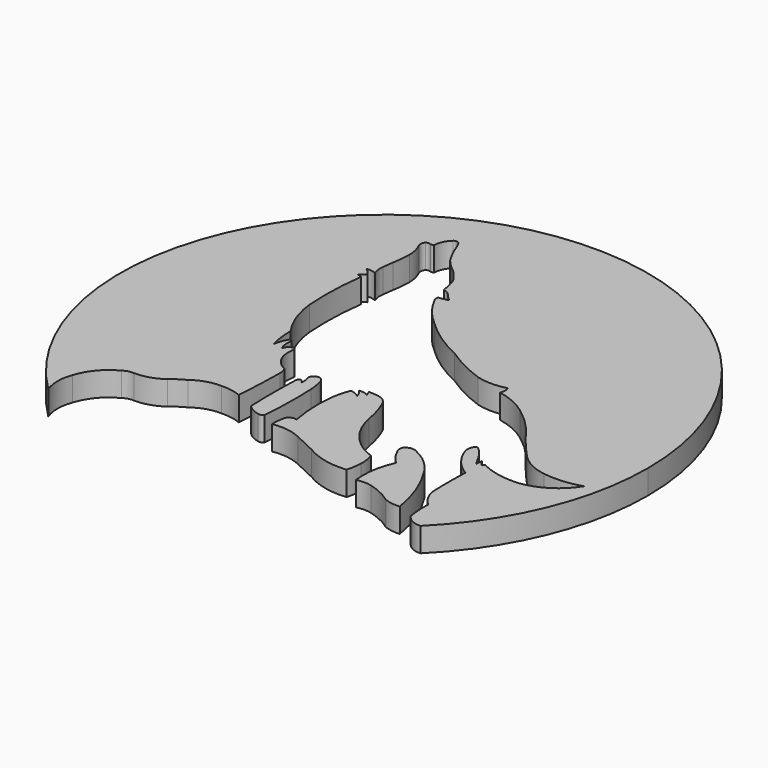
from build123d import *

# Parameters (mm, degrees)
F1_DEPTH = 1.5875


with BuildPart() as f1:
    # F0 (on Top) → F1 (new body)
    with BuildSketch(Plane.XY):
        with BuildLine():
            ThreePointArc((40.6138412089, 11.1879872811), (44.3893813546, 16.818760916), (45.715559274, 23.4671868384))
            ThreePointArc((45.715559274, 23.4671868384), (21.6972410902, 39.4516960826), (16.225380823, 11.1242731611))
            ThreePointArc((16.225380823, 11.1242731611), (16.0449899903, 12.1149049861), (16.225380823, 13.1055368111))
            ThreePointArc((16.225380823, 13.1055368111), (16.853264006, 14.2602760872), (17.8832188249, 15.0768868625))
            ThreePointArc((17.8832188249, 15.0768868625), (18.1963209443, 15.2252877767), (18.541412428, 15.2563946322))
            ThreePointArc((18.541412428, 15.2563946322), (19.4696798214, 15.3874227341), (20.3065685928, 15.8098749816))
            ThreePointArc((20.3065685928, 15.8098749816), (20.7291825225, 16.1298273504), (21.1891476065, 16.3932740688))
            ThreePointArc((21.1891476065, 16.3932740688), (22.0231564983, 16.8249110158), (22.9543037713, 16.9467553496))
            ThreePointArc((22.9543037713, 16.9467553496), (23.6167406869, 16.9025504978), (24.255733937, 16.7223718017))
            ThreePointArc((24.255733937, 16.7223718017), (24.3480631492, 18.3159973924), (24.3934299797, 19.9116505682))
            ThreePointArc((24.3934299797, 19.9116505682), (24.3640515126, 20.1955516989), (24.255733937, 20.4596165568))
            ThreePointArc((24.255733937, 20.4596165568), (23.4485536799, 21.2492600666), (23.3282651752, 22.3720278591))
            ThreePointArc((23.3282651752, 22.3720278591), (23.245194688, 22.5524938696), (23.0483990163, 22.5252881646))
            ThreePointArc((23.0483990163, 22.5252881646), (22.848717574, 22.3723198867), (22.7552074939, 22.1388079226))
            ThreePointArc((22.7552074939, 22.1388079226), (22.6721480202, 22.3195183031), (22.6219389588, 22.5119609386))
            ThreePointArc((22.6219389588, 22.5119609386), (22.6048479378, 22.7784989402), (22.6219389588, 23.0450369418))
            ThreePointArc((22.6219389588, 23.0450369418), (22.5418485808, 23.1534818979), (22.4220342934, 23.0916813016))
            ThreePointArc((22.4220342934, 23.0916813016), (22.2278560926, 22.6817446052), (22.1191700548, 22.2413577139))
            ThreePointArc((22.1191700548, 22.2413577139), (21.9561743884, 23.0701852237), (21.9031702727, 23.9132232964))
            ThreePointArc((21.9031702727, 23.9132232964), (21.1833580127, 25.286934253), (20.8321809769, 26.7975255847))
            ThreePointArc((20.8321809769, 26.7975255847), (20.7886050674, 28.8340743399), (20.9617074579, 30.8637209237))
            ThreePointArc((20.9617074579, 30.8637209237), (20.8312321158, 30.9335299022), (20.6849668175, 30.9559702873))
            ThreePointArc((20.6849668175, 30.9559702873), (20.8591314382, 31.1285502951), (21.0718438029, 31.2504954636))
            ThreePointArc((21.0718438029, 31.2504954636), (20.8673633559, 31.5251971825), (20.6083022058, 31.749162823))
            ThreePointArc((20.6083022058, 31.749162823), (20.9355165303, 31.7487123227), (21.2507322431, 31.6609144211))
            ThreePointArc((21.2507322431, 31.6609144211), (21.1491874957, 32.0453250929), (21.1597159505, 32.4427820742))
            ThreePointArc((21.1597159505, 32.4427820742), (21.2020514992, 32.7899968437), (21.2507322431, 33.1363789737))
            ThreePointArc((21.2507322431, 33.1363789737), (21.3327884133, 33.7279123584), (21.3694609702, 34.3239828944))
            ThreePointArc((21.3694609702, 34.3239828944), (21.2987678583, 34.9088703102), (21.0906844586, 35.4600436985))
            ThreePointArc((21.0906844586, 35.4600436985), (21.0640570491, 35.6896264561), (21.1597159505, 35.9000228345))
            ThreePointArc((21.1597159505, 35.9000228345), (21.3030164449, 35.9588911612), (21.4562620968, 35.9361693263))
            ThreePointArc((21.4562620968, 35.9361693263), (21.5770733531, 35.9221471629), (21.6920077801, 35.9619222581))
            ThreePointArc((21.6920077801, 35.9619222581), (21.8138407737, 36.4946281036), (22.1325885504, 36.938495934))
            ThreePointArc((22.1325885504, 36.938495934), (22.2048233238, 36.9909620236), (22.2914330661, 37.0126254857))
            ThreePointArc((22.2914330661, 37.0126254857), (22.4293731328, 36.9914182555), (22.5279312581, 36.8926078081))
            ThreePointArc((22.5279312581, 36.8926078081), (22.6497727888, 36.6906236411), (22.7397214621, 36.4725589752))
            ThreePointArc((22.7397214621, 36.4725589752), (23.0244490813, 35.8033662226), (23.3762208372, 35.1668559015))
            ThreePointArc((23.3762208372, 35.1668559015), (23.6308695383, 34.8761197662), (23.9066984504, 34.6053950489))
            ThreePointArc((23.9066984504, 34.6053950489), (24.3377907873, 34.237413525), (24.6993564069, 33.8009260595))
            ThreePointArc((24.6993564069, 33.8009260595), (24.9270335708, 33.4414563185), (25.0542964786, 33.0354273319))
            ThreePointArc((25.0542964786, 33.0354273319), (25.1235180367, 32.7324602309), (25.1611527056, 32.4239730835))
            ThreePointArc((25.1611527056, 32.4239730835), (25.182650196, 32.3862093131), (25.2160653472, 32.358430326))
            ThreePointArc((25.2160653472, 32.358430326), (25.4311383906, 32.3117693158), (25.6075430661, 32.1801826358))
            ThreePointArc((25.6075430661, 32.1801826358), (25.8218192721, 31.9413507723), (26.0501615703, 31.7159295082))
            ThreePointArc((26.0501615703, 31.7159295082), (26.0652501368, 31.6648129846), (26.0295135808, 31.6252723424))
            ThreePointArc((26.0295135808, 31.6252723424), (25.8502575297, 31.6107250286), (25.6754327565, 31.5685272217))
            ThreePointArc((25.6754327565, 31.5685272217), (25.593158789, 31.5559774603), (25.5108848214, 31.5685272217))
            ThreePointArc((25.5108848214, 31.5685272217), (25.4653404157, 31.4795752011), (25.4678763449, 31.37967363))
            ThreePointArc((25.4678763449, 31.37967363), (25.4800371047, 31.2958635951), (25.5108848214, 31.216993928))
            ThreePointArc((25.5108848214, 31.216993928), (26.2084624833, 30.1294950174), (27.1102916449, 29.204307124))
            ThreePointArc((27.1102916449, 29.204307124), (28.4761170354, 28.0976294598), (30.0098396838, 27.2386129946))
            ThreePointArc((30.0098396838, 27.2386129946), (31.2654562499, 26.4927426062), (32.6085872948, 25.9192492813))
            ThreePointArc((32.6085872948, 25.9192492813), (33.5814524442, 25.7866671963), (34.5543175936, 25.9192492813))
            ThreePointArc((34.5543175936, 25.9192492813), (34.6210833329, 25.6060669199), (34.5543175936, 25.2928845584))
            ThreePointArc((34.5543175936, 25.2928845584), (35.5964371353, 24.9652262038), (36.5430563688, 24.4199875742))
            ThreePointArc((36.5430563688, 24.4199875742), (37.7403955313, 23.3878159678), (38.7380681932, 22.1615824848))
            ThreePointArc((38.7380681932, 22.1615824848), (39.4035909698, 21.353414059), (40.1026643813, 20.5740854144))
            ThreePointArc((40.1026643813, 20.5740854144), (40.9535205013, 19.9661959034), (41.9527515769, 19.6579378098))
            ThreePointArc((41.9527515769, 19.6579378098), (43.1897824164, 19.6174871411), (44.4049350917, 19.8526158929))
            ThreePointArc((44.4049350917, 19.8526158929), (43.1968436495, 18.6249505496), (41.5785759687, 18.0351566523))
            ThreePointArc((41.5785759687, 18.0351566523), (40.2439177773, 18.1036067445), (38.9786548913, 18.5338482261))
            ThreePointArc((38.9786548913, 18.5338482261), (38.9162274897, 18.473870869), (38.8833992183, 18.393766135))
            ThreePointArc((38.8833992183, 18.393766135), (38.704645043, 18.5581219531), (38.5752171278, 18.7635831535))
            ThreePointArc((38.5752171278, 18.7635831535), (38.5528023986, 18.5366496444), (38.5752171278, 18.3097161353))
            ThreePointArc((38.5752171278, 18.3097161353), (38.3839684501, 18.6071703212), (38.219968425, 18.9204737544))
            ThreePointArc((38.219968425, 18.9204737544), (37.963419654, 19.3085401433), (37.6562811434, 19.6579378098))
            ThreePointArc((37.6562811434, 19.6579378098), (37.5495416023, 19.7608369916), (37.414342165, 19.8216866702))
            ThreePointArc((37.414342165, 19.8216866702), (37.2898510014, 19.7187013372), (37.2088849545, 19.578885287))
            ThreePointArc((37.2088849545, 19.578885287), (37.1769812011, 19.2809333137), (37.2509099543, 18.990540877))
            ThreePointArc((37.2509099543, 18.990540877), (37.8419258006, 17.982894134), (38.7294664979, 17.2233395278))
            ThreePointArc((38.7294664979, 17.2233395278), (38.6947670992, 15.8499628305), (38.7294664979, 14.4765861332))
            ThreePointArc((38.7294664979, 14.4765861332), (38.9933922908, 13.8234245729), (39.4422002137, 13.2804252207))
            ThreePointArc((39.4422002137, 13.2804252207), (39.4484798156, 12.5470066711), (39.5270623267, 11.8177831173))
            ThreePointArc((39.5270623267, 11.8177831173), (39.5797367277, 11.6631407739), (39.694532752, 11.5469051525))
            ThreePointArc((39.694532752, 11.5469051525), (40.1131374345, 11.2623046294), (40.6138412089, 11.1879872811))
        make_face()
    extrude(amount=-F1_DEPTH)


with BuildPart() as f1b:
    # F0 (on Top) → F1, piece 2 (new body)
    with BuildSketch(Plane.XY):
        with BuildLine():
            ThreePointArc((25.5136303604, 19.7703111917), (25.477044886, 17.9643677548), (25.5136303604, 16.1584243178))
            ThreePointArc((25.5136303604, 16.1584243178), (25.8893739729, 15.8633657585), (26.3387989253, 15.7013162971))
            ThreePointArc((26.3387989253, 15.7013162971), (26.5299991555, 15.7037336987), (26.6890507191, 15.8098749816))
            ThreePointArc((26.6890507191, 15.8098749816), (26.7778120097, 17.6575473552), (26.7568007112, 19.5072311908))
            ThreePointArc((26.7568007112, 19.5072311908), (26.705379459, 19.9708452237), (26.6061667353, 20.4266291112))
            ThreePointArc((26.6061667353, 20.4266291112), (26.4760116073, 20.7079955876), (26.1925663799, 20.8335593343))
            ThreePointArc((26.1925663799, 20.8335593343), (26.0298191685, 20.7553261499), (25.8945953101, 20.6356532872))
            ThreePointArc((25.8945953101, 20.6356532872), (25.8320446577, 20.5404028764), (25.8256606758, 20.4266291112))
            ThreePointArc((25.8256606758, 20.4266291112), (25.9101260902, 20.1037215707), (25.8945953101, 19.7703111917))
            ThreePointArc((25.8945953101, 19.7703111917), (25.8160516776, 19.9379230864), (25.6499927491, 20.0196988881))
            ThreePointArc((25.6499927491, 20.0196988881), (25.5478198491, 19.9135913224), (25.5136303604, 19.7703111917))
        make_face()
    extrude(amount=-F1_DEPTH)


with BuildPart() as f1c:
    # F0 (on Top) → F1, piece 3 (new body)
    with BuildSketch(Plane.XY):
        with BuildLine():
            ThreePointArc((27.6050176471, 15.2563946322), (28.5940796016, 15.2752356287), (29.5394230634, 14.983817935))
            ThreePointArc((29.5394230634, 14.983817935), (30.2508435726, 14.6522502265), (30.9602636844, 14.3164237961))
            ThreePointArc((30.9602636844, 14.3164237961), (32.3059606631, 13.7772493957), (33.7529778481, 13.6892115697))
            ThreePointArc((33.7529778481, 13.6892115697), (33.8617896612, 14.18998039), (33.9128673077, 14.6998828277))
            ThreePointArc((33.9128673077, 14.6998828277), (33.8789119107, 15.208108379), (33.7460562587, 15.6998354942))
            ThreePointArc((33.7460562587, 15.6998354942), (33.1726927384, 15.9437829601), (32.6534174383, 16.2881799042))
            ThreePointArc((32.6534174383, 16.2881799042), (32.1068926643, 16.8037040587), (31.6580086946, 17.4061637372))
            ThreePointArc((31.6580086946, 17.4061637372), (31.3296562551, 18.094490451), (31.1207026243, 18.827939406))
            ThreePointArc((31.1207026243, 18.827939406), (30.9255110694, 19.6805949857), (30.6252557784, 20.502159372))
            ThreePointArc((30.6252557784, 20.502159372), (30.3884001956, 20.8668496166), (30.0093479455, 21.0799667984))
            ThreePointArc((30.0093479455, 21.0799667984), (29.6256294124, 21.1362083046), (29.2380768806, 21.1505629122))
            ThreePointArc((29.2380768806, 21.1505629122), (29.3219904165, 20.9966821887), (29.369469732, 20.8279620856))
            ThreePointArc((29.369469732, 20.8279620856), (29.0860457766, 20.9436471814), (28.7799313333, 20.9411717951))
            ThreePointArc((28.7799313333, 20.9411717951), (28.9580139744, 20.7007890788), (29.06540595, 20.4215683043))
            ThreePointArc((29.06540595, 20.4215683043), (28.7799313333, 20.593097689), (28.455240652, 20.6672195345))
            ThreePointArc((28.455240652, 20.6672195345), (28.2735524739, 20.1175575827), (28.1542669982, 19.5510685444))
            ThreePointArc((28.1542669982, 19.5510685444), (28.0929396433, 17.9787553687), (28.2813422382, 16.4165664464))
            ThreePointArc((28.2813422382, 16.4165664464), (27.8768569621, 16.3988592474), (27.6742093265, 16.0483513027))
            ThreePointArc((27.6742093265, 16.0483513027), (27.6142061571, 15.6545927553), (27.6050176471, 15.2563946322))
        make_face()
    extrude(amount=-F1_DEPTH)


with BuildPart() as f1d:
    # F0 (on Top) → F1, piece 4 (new body)
    with BuildSketch(Plane.XY):
        with BuildLine():
            ThreePointArc((34.8431430757, 13.1055368111), (35.3418346494, 13.1667233509), (35.8405262232, 13.1055368111))
            ThreePointArc((35.8405262232, 13.1055368111), (36.6602027512, 12.8000512371), (37.4094434083, 12.3485764489))
            ThreePointArc((37.4094434083, 12.3485764489), (37.9160858215, 12.2130355777), (38.4404473007, 12.2028915212))
            ThreePointArc((38.4404473007, 12.2028915212), (37.9071776984, 14.2030416862), (36.9691960514, 16.0483513027))
            ThreePointArc((36.9691960514, 16.0483513027), (36.2207818344, 16.9087204242), (35.2619476616, 17.5259690732))
            ThreePointArc((35.2619476616, 17.5259690732), (34.8506337476, 17.6086962737), (34.4832055271, 17.4061637372))
            ThreePointArc((34.4832055271, 17.4061637372), (34.4526768643, 17.1001285205), (34.5730595291, 16.8171133846))
            ThreePointArc((34.5730595291, 16.8171133846), (34.8670483883, 16.3062311042), (35.2619476616, 15.8686414361))
            ThreePointArc((35.2619476616, 15.8686414361), (35.2554306004, 15.8541741598), (35.2519638836, 15.8386901021))
            ThreePointArc((35.2519638836, 15.8386901021), (34.8527526141, 14.5012514663), (34.8431430757, 13.1055368111))
        make_face()
    extrude(amount=-F1_DEPTH)


solid = Compound([f1.part, f1b.part, f1c.part, f1d.part])
